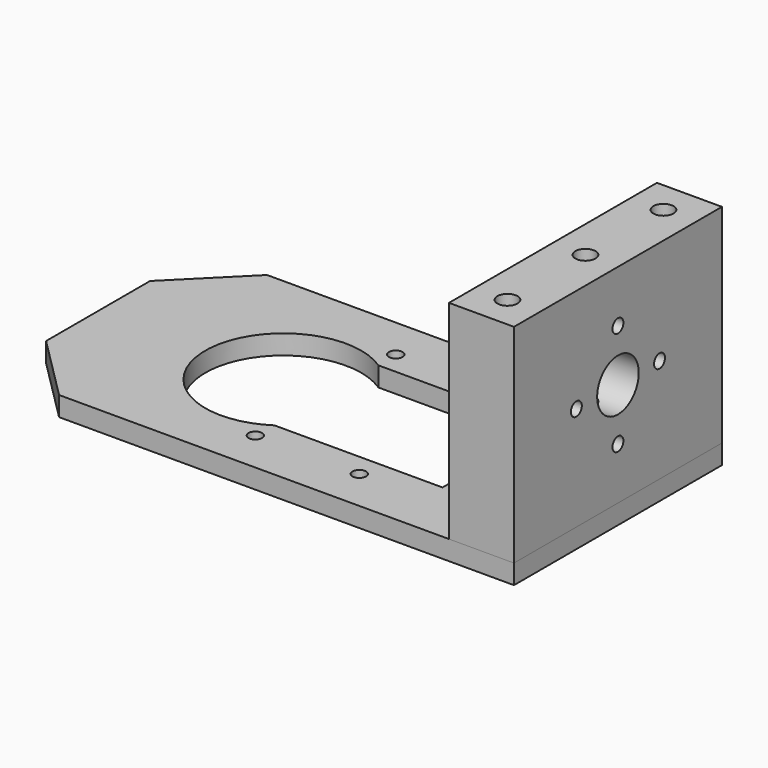
from build123d import *

# Parameters (mm, degrees)
F0_R           = 1.05
F0_R_2         = 1.55
F1_DEPTH       = 3
F2_W           = 10
F2_H           = 40
F2_R           = 1.55
F3_DEPTH       = 32
F4_R           = 4
F5_DEPTH       = 25
F6_D           = 2.1
F6_CBORE_D     = 4.4
F6_CBORE_DEPTH = 2.5


with BuildPart() as f1:
    # F0 (on Top) → F1 (new body)
    with BuildSketch(Plane.XY):
        Polygon((51.5, -20), (51.5, 20), (-18.5, 20), (-28.5, 10), (-28.5, -10), (-18.5, -20), align=None)
        with Locations((6.5, -13.5)):
            Circle(F0_R, mode=Mode.SUBTRACT)
        with Locations((22.5, -13.5)):
            Circle(F0_R, mode=Mode.SUBTRACT)
        with Locations((46.5, -15)):
            Circle(F0_R_2, mode=Mode.SUBTRACT)
        with Locations((36, -8)):
            Circle(F0_R, mode=Mode.SUBTRACT)
        with BuildLine():
            ThreePointArc((6.63325, -10), (-12, 0), (6.63325, 10))
            Line((6.63325, 10), (32.5, 10))
            Line((32.5, 10), (32.5, -10))
            Line((32.5, -10), (6.63325, -10))
        make_face(mode=Mode.SUBTRACT)
        with Locations((6.5, 13.5)):
            Circle(F0_R, mode=Mode.SUBTRACT)
        with Locations((46.5, 0)):
            Circle(F0_R_2, mode=Mode.SUBTRACT)
        with Locations((36, 8)):
            Circle(F0_R, mode=Mode.SUBTRACT)
        with Locations((22.5, 13.5)):
            Circle(F0_R, mode=Mode.SUBTRACT)
        with Locations((46.5, 15)):
            Circle(F0_R_2, mode=Mode.SUBTRACT)
    extrude(amount=F1_DEPTH)


with BuildPart() as f3:
    # F2 (on face) → F3 (new body)
    with BuildSketch(Plane.XY.offset(3)):
        with Locations((46.5, 0)):
            Rectangle(F2_W, F2_H)
        with Locations((46.5, -15)):
            Circle(F2_R, mode=Mode.SUBTRACT)
        with Locations((46.5, 0)):
            Circle(F2_R, mode=Mode.SUBTRACT)
        with Locations((46.5, 15)):
            Circle(F2_R, mode=Mode.SUBTRACT)
    extrude(amount=F3_DEPTH)

    # F4 (on face) → F5 (cut)
    with BuildSketch(Plane(origin=(41.5, 0, 0), x_dir=(0, -1, 0), z_dir=(-1, 0, 0))):
        with Locations((0, 19)):
            Circle(F4_R)
    extrude(amount=-F5_DEPTH, mode=Mode.SUBTRACT)

    # F6 (through all)
    with Locations(Plane(origin=(41.5, 0, 0), x_dir=(0, -1, 0), z_dir=(-1, 0, 0))):
        with Locations((0, 27), (8, 19), (0, 11), (-8, 19)):
            CounterBoreHole(F6_D / 2, F6_CBORE_D / 2, F6_CBORE_DEPTH)


solid = Compound([f1.part, f3.part])
